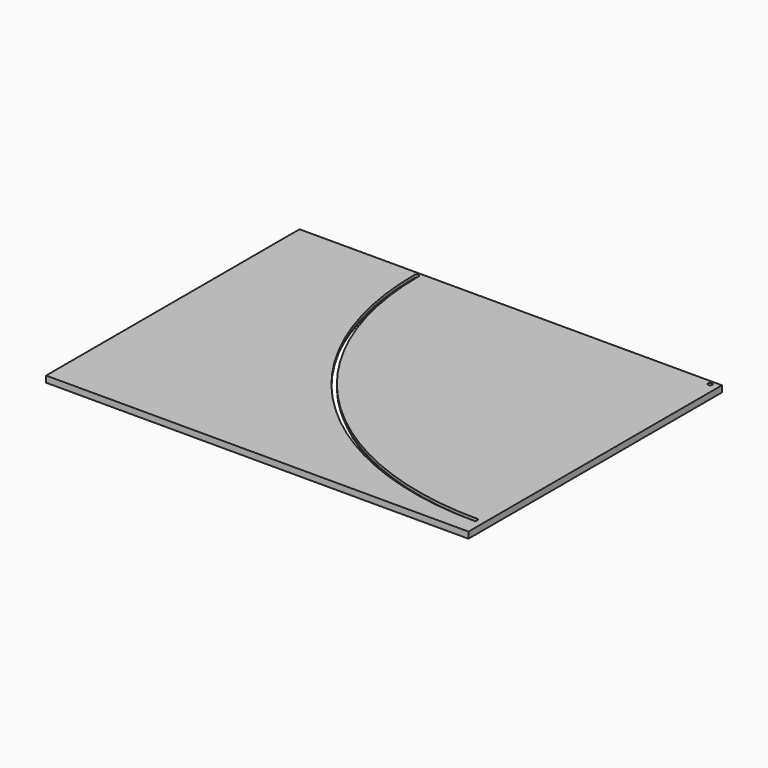
from build123d import *

# Parameters (mm, degrees)
F0_R     = 3
F1_DEPTH = 9
F3_DEPTH = 5


with BuildPart() as f1:
    # F0 (on Top) → F1 (new body)
    with BuildSketch(Plane.XY):
        Polygon((0, -450), (0, 0), (-600, 0), (-600, -450), (-28.759103, -450), align=None)
        with BuildLine():
            ThreePointArc((-12, -420), (-9.87868, -420.87868), (-9, -423))
            ThreePointArc((-9, -423), (-9.87868, -425.12132), (-12, -426))
            ThreePointArc((-12, -426), (-308.984848, -302.984848), (-432, -6))
            ThreePointArc((-432, -6), (-429, -3), (-426, -6))
            ThreePointArc((-426, -6), (-304.742207, -298.742207), (-12, -420))
        make_face(mode=Mode.SUBTRACT)
        with Locations((-12, -6)):
            Circle(F0_R, mode=Mode.SUBTRACT)
    extrude(amount=F1_DEPTH)

    # F2 (on Top) → F3 (cut)
    with BuildSketch(Plane.XY):
        with BuildLine():
            ThreePointArc((-424.056297, -5.461279), (-429.262899, -10.654669), (-434.456288, -5.448067))
            ThreePointArc((-434.456288, -5.448067), (-310.797014, -304.525155), (-11.719925, -428.18443))
            ThreePointArc((-11.719925, -428.18443), (-16.926527, -422.99104), (-11.733137, -417.784439))
            ThreePointArc((-11.733137, -417.784439), (-303.443103, -297.171245), (-424.056297, -5.461279))
        make_face()
        with BuildLine():
            ThreePointArc((-424.056297, -5.461279), (-424.056294, -5.457976), (-424.056293, -5.454673))
            ThreePointArc((-424.056293, -5.454673), (-429.25299, -0.254674), (-434.456288, -5.448067))
            ThreePointArc((-434.456288, -5.448067), (-429.262899, -10.654669), (-424.056297, -5.461279))
        make_face()
        with BuildLine():
            ThreePointArc((-11.733137, -417.784439), (-16.926527, -422.99104), (-11.719925, -428.18443))
            ThreePointArc((-11.719925, -428.18443), (-8.047241, -426.659053), (-6.526531, -422.984434))
            ThreePointArc((-6.526531, -422.984434), (-8.051912, -419.305144), (-11.733137, -417.784439))
        make_face()
    extrude(amount=F3_DEPTH, mode=Mode.SUBTRACT)


solid = f1.part
